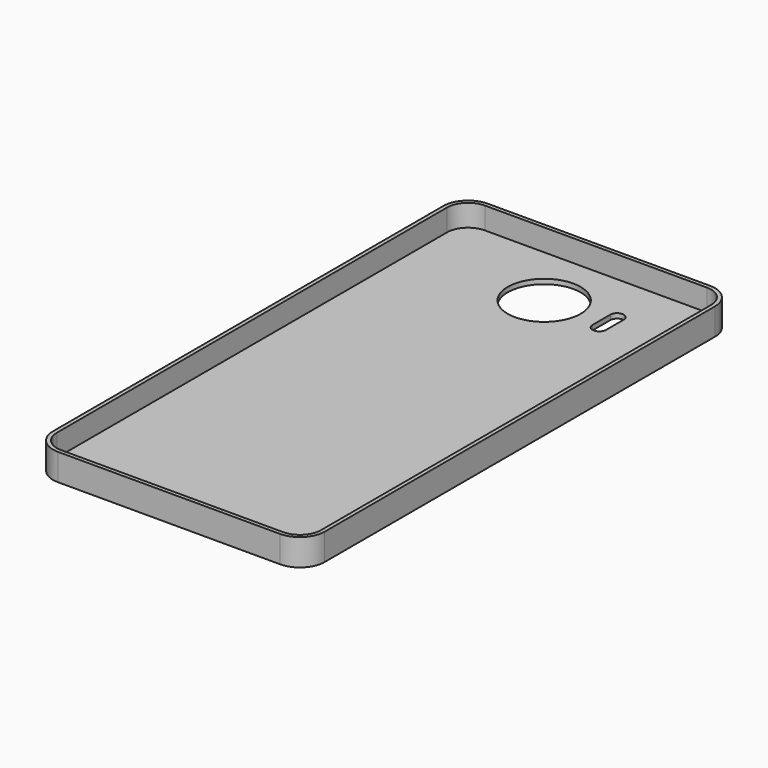
from build123d import *

# Parameters (mm, degrees)
F0_R          = 9.81075
F1_DEPTH      = 1.2954
F3_DEPTH      = 5.8928
F3_DEPTH_BACK = 1.2954


with BuildPart() as f1:
    # F0 (on Top) → F1 (new body)
    with BuildSketch(Plane.XY):
        with BuildLine():
            ThreePointArc((0, 5.6261), (1.647847, 1.647847), (5.6261, 0))
            Line((5.6261, 0), (65.3923, 0))
            ThreePointArc((65.3923, 0), (69.370553, 1.647847), (71.0184, 5.6261))
            Line((71.0184, 5.6261), (71.0184, 136.8679))
            ThreePointArc((71.0184, 136.8679), (69.370553, 140.846153), (65.3923, 142.494))
            Line((65.3923, 142.494), (5.6261, 142.494))
            ThreePointArc((5.6261, 142.494), (1.647847, 140.846153), (0, 136.8679))
            Line((0, 136.8679), (0, 5.6261))
        make_face()
        with Locations((35.24885, 125.43155)):
            Circle(F0_R, mode=Mode.SUBTRACT)
        with BuildLine():
            ThreePointArc((50.165, 129.0447), (51.9811, 130.8608), (53.7972, 129.0447))
            Line((53.7972, 129.0447), (53.7972, 123.063))
            ThreePointArc((53.7972, 123.063), (51.9811, 121.2469), (50.165, 123.063))
            Line((50.165, 123.063), (50.165, 129.0447))
        make_face(mode=Mode.SUBTRACT)
    extrude(amount=-F1_DEPTH)

    # F2 (on face) → F3 (join, two sides)
    with BuildSketch(Plane.XY) as f3_sk:
        with BuildLine():
            ThreePointArc((5.6261, 143.5354), (0.911466, 141.582534), (-1.0414, 136.8679))
            Line((-1.0414, 136.8679), (-1.0414, 5.6261))
            ThreePointArc((-1.0414, 5.6261), (0.911466, 0.911466), (5.6261, -1.0414))
            Line((5.6261, -1.0414), (65.3923, -1.0414))
            ThreePointArc((65.3923, -1.0414), (70.106934, 0.911466), (72.0598, 5.6261))
            Line((72.0598, 5.6261), (72.0598, 136.8679))
            ThreePointArc((72.0598, 136.8679), (70.106934, 141.582534), (65.3923, 143.5354))
            Line((65.3923, 143.5354), (5.6261, 143.5354))
        make_face()
        with BuildLine():
            ThreePointArc((5.6261, 0), (1.647847, 1.647847), (0, 5.6261))
            Line((0, 5.6261), (0, 136.8679))
            ThreePointArc((0, 136.8679), (1.647847, 140.846153), (5.6261, 142.494))
            Line((5.6261, 142.494), (65.3923, 142.494))
            ThreePointArc((65.3923, 142.494), (69.370553, 140.846153), (71.0184, 136.8679))
            Line((71.0184, 136.8679), (71.0184, 5.6261))
            ThreePointArc((71.0184, 5.6261), (69.370553, 1.647847), (65.3923, 0))
            Line((65.3923, 0), (5.6261, 0))
        make_face(mode=Mode.SUBTRACT)
    extrude(amount=F3_DEPTH)
    extrude(f3_sk.sketch, amount=-F3_DEPTH_BACK)


solid = f1.part
